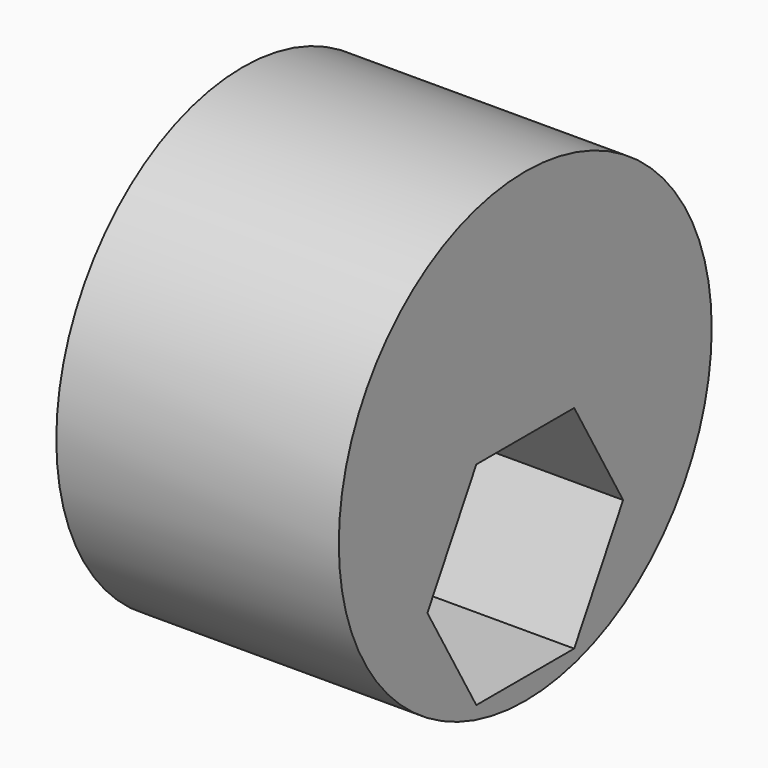
from build123d import *

# Parameters (mm, degrees)
F0_R     = 20.955
F1_DEPTH = 25.4
F3_DEPTH = 25.4


with BuildPart() as f1:
    # F0 (on Right) → F1 (new body)
    with BuildSketch(Plane.YZ):
        Circle(F0_R)
    extrude(amount=F1_DEPTH)

    # F2 (on face) → F3 (cut)
    with BuildSketch(Plane.YZ.offset(25.4)):
        Polygon((0, -9.525), (0, 0), (-5.499261, 0), (-10.998523, -9.525), (-5.499261, -19.05), (0, -19.05), align=None)
        Polygon((5.499261, 0), (0, 0), (0, -9.525), (0, -19.05), (5.499261, -19.05), (10.998523, -9.525), align=None)
    extrude(amount=-F3_DEPTH, mode=Mode.SUBTRACT)


solid = f1.part
